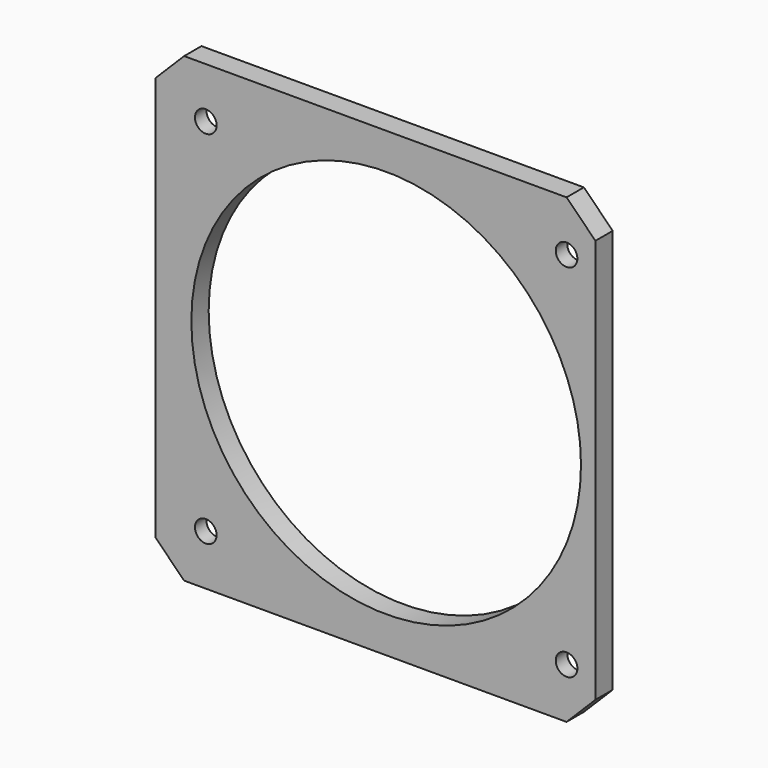
from build123d import *

# Parameters (mm, degrees)
CYLINDER871_R     = 3
CYLINDER871_DEPTH = 3
CYLINDER872_R     = 3
CYLINDER872_DEPTH = 3
CYLINDER873_R     = 3
CYLINDER873_DEPTH = 3
CYLINDER870_R     = 3
CYLINDER870_DEPTH = 3
CYLINDER867_R     = 27
CYLINDER867_DEPTH = 10
CYLINDER864_R     = 1.5
CYLINDER864_DEPTH = 10
CYLINDER865_R     = 1.5
CYLINDER865_DEPTH = 10
CYLINDER866_R     = 1.5
CYLINDER866_DEPTH = 10
CYLINDER863_R     = 1.5
CYLINDER863_DEPTH = 10
BOX418_W          = 61
BOX418_H          = 3
BOX418_DEPTH      = 64
CHAMFER023_SIZE   = 4
CHAMFER024_SIZE   = 4


with BuildPart() as obj1:
    # Cylinder871 → Cylinder871 (new body)
    with BuildSketch(Plane(origin=(50, 0, 0), x_dir=(1, 0, 0), z_dir=(0, -1, 0))):
        Circle(CYLINDER871_R)
    extrude(amount=CYLINDER871_DEPTH)


with BuildPart() as obj2:
    # Cylinder872 → Cylinder872 (new body)
    with BuildSketch(Plane(origin=(50, 0, 50), x_dir=(1, 0, 0), z_dir=(0, -1, 0))):
        Circle(CYLINDER872_R)
    extrude(amount=CYLINDER872_DEPTH)


with BuildPart() as obj3:
    # Cylinder873 → Cylinder873 (new body)
    with BuildSketch(Plane(origin=(0, 0, 50), x_dir=(1, 0, 0), z_dir=(0, -1, 0))):
        Circle(CYLINDER873_R)
    extrude(amount=CYLINDER873_DEPTH)


with BuildPart() as compound499:
    # Cylinder870 → Cylinder870 (new body)
    with BuildSketch(Plane.XZ):
        Circle(CYLINDER870_R)
    extrude(amount=CYLINDER870_DEPTH)

    # Compound499: union obj1, obj2, obj3
    add(obj1.part)
    add(obj2.part)
    add(obj3.part)


with BuildPart() as compound499_1:
    # Compound499 placement: moved
    add(compound499.part.moved(Location((7, 5, 7))))


with BuildPart() as obj4:
    # Cylinder867 → Cylinder867 (new body)
    with BuildSketch(Plane(origin=(32, 5, 32), x_dir=(1, 0, 0), z_dir=(0, -1, 0))):
        Circle(CYLINDER867_R)
    extrude(amount=CYLINDER867_DEPTH)


with BuildPart() as obj5:
    # Cylinder864 → Cylinder864 (new body)
    with BuildSketch(Plane(origin=(50, 0, 0), x_dir=(1, 0, 0), z_dir=(0, -1, 0))):
        Circle(CYLINDER864_R)
    extrude(amount=CYLINDER864_DEPTH)


with BuildPart() as obj6:
    # Cylinder865 → Cylinder865 (new body)
    with BuildSketch(Plane(origin=(50, 0, 50), x_dir=(1, 0, 0), z_dir=(0, -1, 0))):
        Circle(CYLINDER865_R)
    extrude(amount=CYLINDER865_DEPTH)


with BuildPart() as obj7:
    # Cylinder866 → Cylinder866 (new body)
    with BuildSketch(Plane(origin=(0, 0, 50), x_dir=(1, 0, 0), z_dir=(0, -1, 0))):
        Circle(CYLINDER866_R)
    extrude(amount=CYLINDER866_DEPTH)


with BuildPart() as compound498:
    # Cylinder863 → Cylinder863 (new body)
    with BuildSketch(Plane.XZ):
        Circle(CYLINDER863_R)
    extrude(amount=CYLINDER863_DEPTH)

    # Compound498: union obj5, obj6, obj7
    add(obj5.part)
    add(obj6.part)
    add(obj7.part)


with BuildPart() as compound498_1:
    # Compound498 placement: moved
    add(compound498.part.moved(Location((7, 4, 7))))


with BuildPart() as chamfer024:
    # Box418 → Box418 (new body)
    with BuildSketch(Plane.XY):
        with Locations((30.5, 1.5)):
            Rectangle(BOX418_W, BOX418_H)
    extrude(amount=BOX418_DEPTH)

    # Cut015: cut Compound498
    add(compound498_1.part, mode=Mode.SUBTRACT)

    # Cut016: cut obj4
    add(obj4.part, mode=Mode.SUBTRACT)

    # Cut019: cut Compound499
    add(compound499_1.part, mode=Mode.SUBTRACT)

    # Chamfer023
    chamfer023_edges = [chamfer024.edges().sort_by_distance(p)[0] for p in [
        (0, 1.5, 0),
        (61, 1.5, 0),
    ]]
    chamfer(chamfer023_edges, length=CHAMFER023_SIZE)

    # Chamfer024
    chamfer024_edges = [chamfer024.edges().sort_by_distance(p)[0] for p in [
        (0, 1.5, 64),
        (61, 1.5, 64),
    ]]
    chamfer(chamfer024_edges, length=CHAMFER024_SIZE)


solid = chamfer024.part
